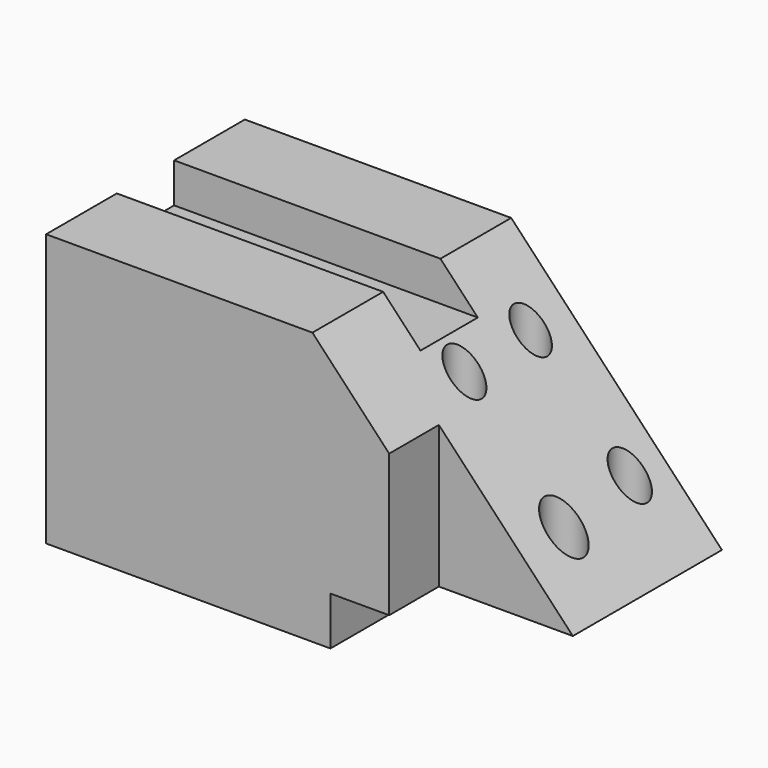
from build123d import *

# Parameters (mm, degrees)
F1_DEPTH = 50.8
F2_W     = 55.727891
F2_H     = 82.951285
F3_DEPTH = 25.4
F4_R     = 6.803982
F4_R_2   = 7.03444
F4_R_3   = 7.085439
F4_R_4   = 7.921759
F5_DEPTH = 63.5
F6_W     = 29.292612
F6_H     = 16.20914
F7_DEPTH = 174.244


with BuildPart() as f1:
    # F0 (on Front) → F1 (new body, symmetric)
    with BuildSketch(Plane.XZ):
        Polygon((11.369772, 55.651672), (-97.532384, 55.651672), (-97.532384, -55.651672), (18.7361, -55.651672), (18.7361, -35.870828), (97.532384, -35.870828), align=None)
    extrude(amount=F1_DEPTH, both=True)

    # F2 (on face) → F3 (cut)
    with BuildSketch(Plane.XZ.offset(50.8)):
        with Locations((70.620689, 5.604814)):
            Rectangle(F2_W, F2_H)
    extrude(amount=-F3_DEPTH, mode=Mode.SUBTRACT)

    # F4 (on Top) → F5 (cut, symmetric)
    with BuildSketch(Plane.XY):
        with Locations((34.800593, 31.432793)):
            Circle(F4_R)
        with Locations((35.442077, -3.207429)):
            Circle(F4_R_2)
        with Locations((73.28973, 33.998735)):
            Circle(F4_R_3)
        with Locations((75.855672, -2.886686)):
            Circle(F4_R_4)
    extrude(amount=F5_DEPTH, both=True, mode=Mode.SUBTRACT)

    # F6 (on face) → F7 (cut)
    with BuildSketch(Plane(origin=(-97.532384, 0, 0), x_dir=(0, -1, 0), z_dir=(-1, 0, 0))):
        with Locations((0, 47.547102)):
            Rectangle(F6_W, F6_H)
    extrude(amount=-F7_DEPTH, mode=Mode.SUBTRACT)


solid = f1.part
